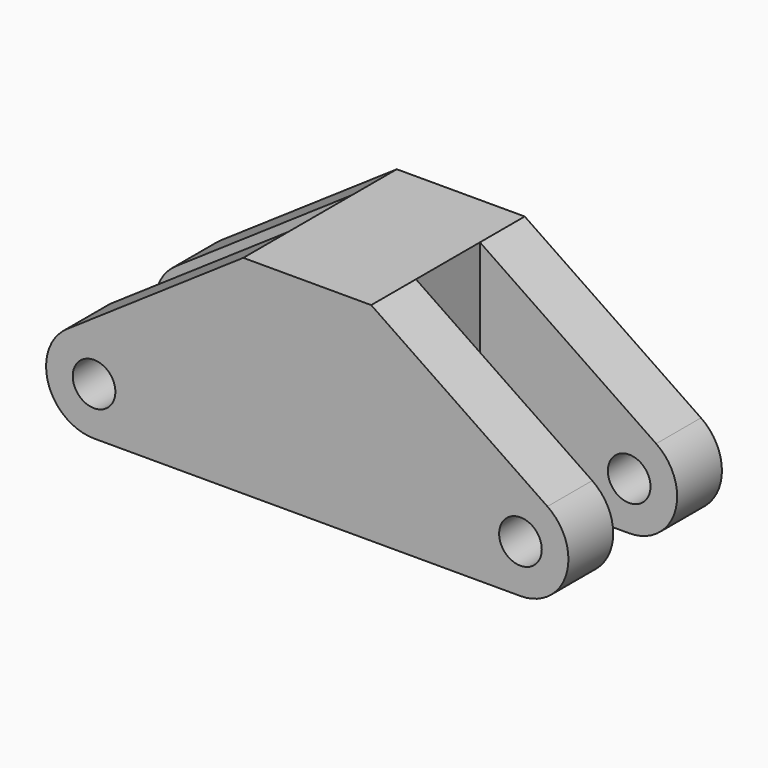
from build123d import *

# Parameters (mm, degrees)
F1_DEPTH = 18
F2_W     = 25.921413
F2_H     = 7.5
F3_DEPTH = 25
F4_R     = 2
F5_DEPTH = 25


with BuildPart() as f1:
    # F0 (on Front) → F1 (new body)
    with BuildSketch(Plane.XZ):
        with BuildLine():
            Line((-20, 0), (0, 0))
            Line((0, 0), (20, 0))
            ThreePointArc((20, 0), (24.300527, 3.175061), (22.532417, 8.219794))
            Line((22.532417, 8.219794), (6, 19.474979))
            Line((6, 19.474979), (-6, 19.474979))
            Line((-6, 19.474979), (-22.532417, 8.219794))
            ThreePointArc((-22.532417, 8.219794), (-24.300527, 3.175061), (-20, 0))
        make_face()
    extrude(amount=F1_DEPTH)

    # F2 (on face) → F3 (cut)
    with BuildSketch(Plane.XY.offset(19.474979)):
        with Locations((-18.960707, -9)):
            Rectangle(F2_W, F2_H)
        with Locations((18.960707, -9)):
            Rectangle(F2_W, F2_H)
    extrude(amount=-F3_DEPTH, mode=Mode.SUBTRACT)

    # F4 (on face) → F5 (cut)
    with BuildSketch(Plane.XZ.offset(18)):
        with Locations((-20, 4.5)):
            Circle(F4_R)
        with Locations((20, 4.5)):
            Circle(F4_R)
    extrude(amount=-F5_DEPTH, mode=Mode.SUBTRACT)


solid = f1.part
